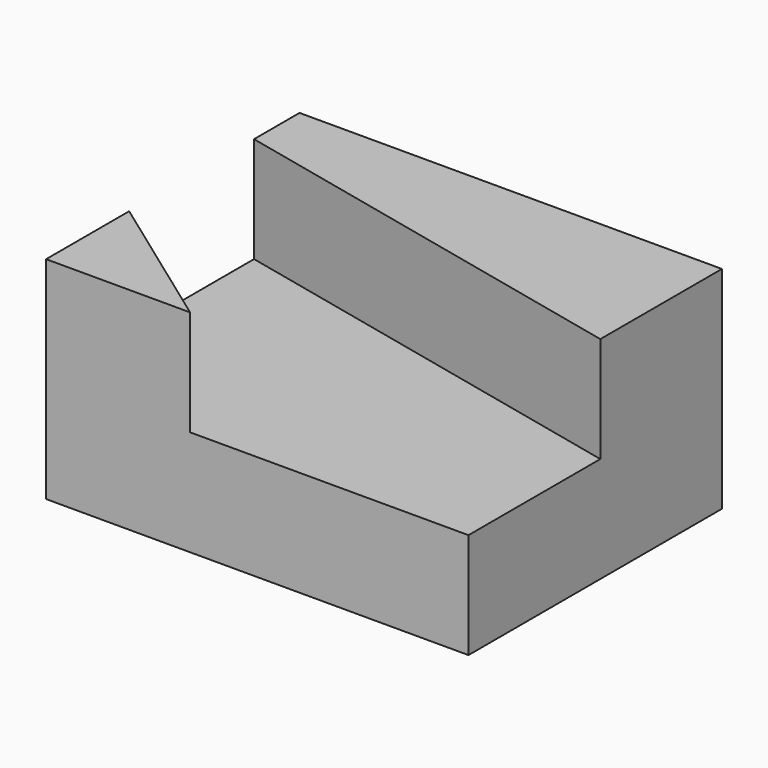
from build123d import *

# Parameters (mm, degrees)
F0_W     = 38.1
F0_H     = 25.4
F1_DEPTH = 50.8
F4_DEPTH = 12.7


with BuildPart() as f1:
    # F0 (on Right) → F1 (new body)
    with BuildSketch(Plane.YZ):
        with Locations((-19.05, 12.7)):
            Rectangle(F0_W, F0_H)
        with Locations((-19.05, 12.7)):
            Rectangle(F0_W, F0_H)
    extrude(amount=F1_DEPTH)

    # F3 (on face) → F4 (cut)
    with BuildSketch(Plane.XY.offset(25.4)):
        Polygon((50.8, -38.1), (50.8, -18.281377), (0, -6.838462), (0, -25.606144), (17.320938, -38.1), align=None)
    extrude(amount=-F4_DEPTH, mode=Mode.SUBTRACT)


solid = f1.part
